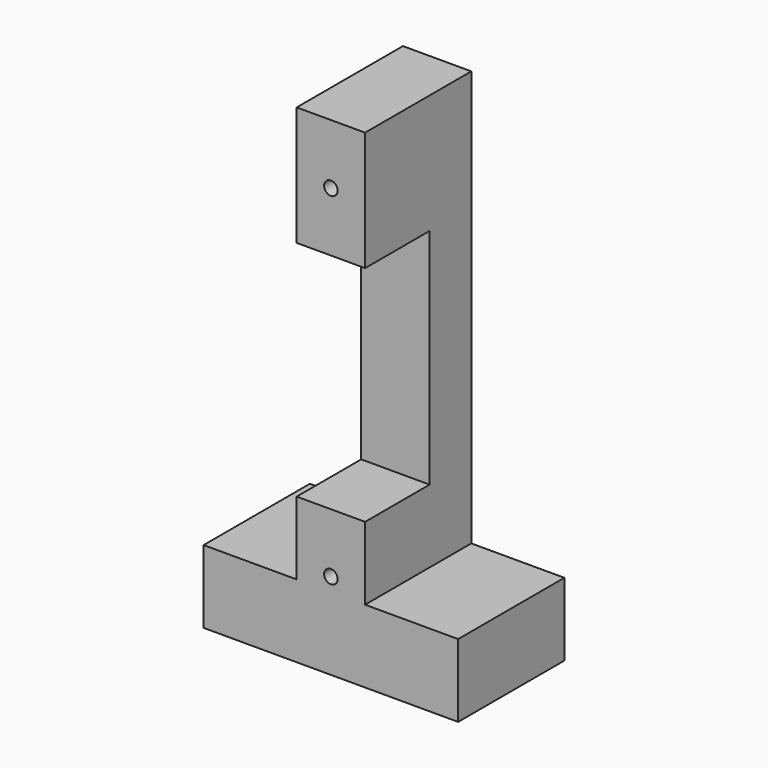
from build123d import *

# Parameters (mm, degrees)
F0_W      = 28
F0_H      = 200
F1_DEPTH  = 54.356
F3_W      = 27.69987
F3_H      = 91.44
F4_DEPTH  = 33
F4_FACE_W = 33
F4_FACE_H = 91.44
F5_DEPTH  = 25.4
F6_R      = 2.778125
F7_DEPTH  = 12.7
F8_W      = 54.356
F8_H      = 29.860789
F9_DEPTH  = 38.1
F10_W     = 54.356
F10_H     = 29.860789
F11_DEPTH = 38.1


with BuildPart() as f1:
    # F0 (on Front) → F1 (new body)
    with BuildSketch(Plane.XZ):
        with Locations((-41.935609, 69.564922)):
            Rectangle(F0_W, F0_H)
    extrude(amount=F1_DEPTH)

    # F3 (on face) → F4 (cut)
    with BuildSketch(Plane.XZ.offset(54.356)):
        with Locations((-41.785544, 75.0065)):
            Rectangle(F3_W, F3_H)
    extrude(amount=-F4_DEPTH, mode=Mode.SUBTRACT)

    # F4_face (on face) → F5 (cut)
    with BuildSketch(Plane(origin=(-55.635479, -37.856, 75.0065), x_dir=(0, 1, 0), z_dir=(1, 0, 0))):
        Rectangle(F4_FACE_W, F4_FACE_H)
    extrude(amount=-F5_DEPTH, mode=Mode.SUBTRACT)

    # F6 (on face) → F7 (cut)
    with BuildSketch(Plane.XZ.offset(54.356)):
        with Locations((-41.935609, 145)):
            Circle(F6_R)
        with Locations((-41.935609, 5)):
            Circle(F6_R)
    extrude(amount=-F7_DEPTH, mode=Mode.SUBTRACT)

    # F8 (on face) → F9 (join)
    with BuildSketch(Plane.YZ.offset(-27.935609)):
        with Locations((-27.178, -15.504683)):
            Rectangle(F8_W, F8_H)
    extrude(amount=F9_DEPTH)

    # F10 (on face) → F11 (join)
    with BuildSketch(Plane(origin=(-55.935609, 0, 0), x_dir=(0, -1, 0), z_dir=(-1, 0, 0))):
        with Locations((27.178, -15.504683)):
            Rectangle(F10_W, F10_H)
    extrude(amount=F11_DEPTH)


solid = f1.part
